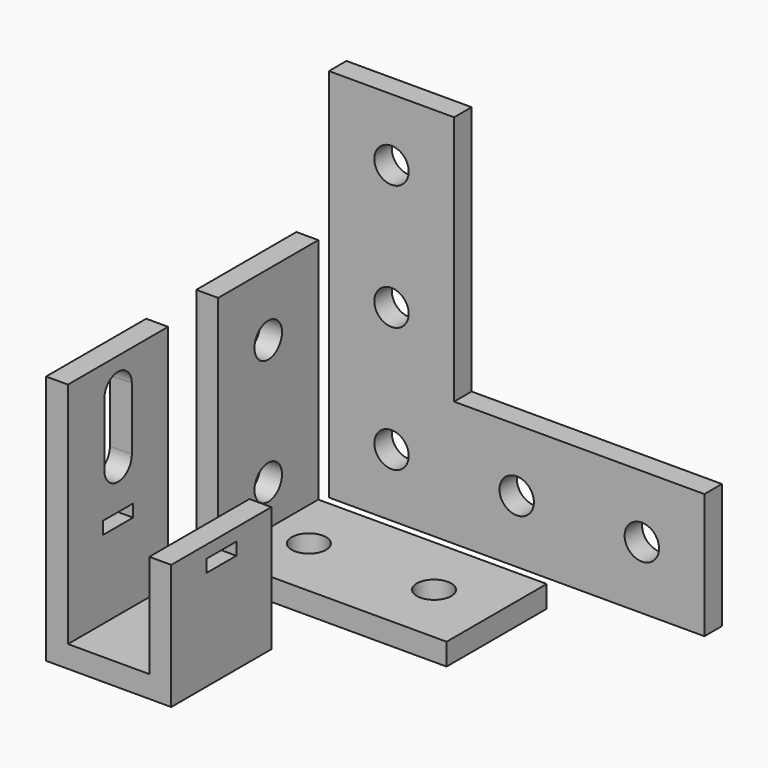
from build123d import *

# Parameters (mm, degrees)
F0_R      = 2.75
F1_DEPTH  = 3.5
F3_DEPTH  = 20
F4_R      = 2.75
F5_DEPTH  = 3.5
F6_R      = 2.75
F7_DEPTH  = 3.5
F9_DEPTH  = 20
F11_DEPTH = 3.5
F12_W     = 6
F12_H     = 2
F13_DEPTH = 20


with BuildPart() as f1:
    # F0 (on Front) → F1 (new body)
    with BuildSketch(Plane.XZ):
        Polygon((0, 20), (0, 0), (20, 0), (60, 0), (60, 20), (20, 20), (20, 60), (0, 60), align=None)
        with Locations((10, 10)):
            Circle(F0_R, mode=Mode.SUBTRACT)
        with Locations((30, 10)):
            Circle(F0_R, mode=Mode.SUBTRACT)
        with Locations((50, 10)):
            Circle(F0_R, mode=Mode.SUBTRACT)
        with Locations((10, 30)):
            Circle(F0_R, mode=Mode.SUBTRACT)
        with Locations((10, 50)):
            Circle(F0_R, mode=Mode.SUBTRACT)
    extrude(amount=F1_DEPTH)


with BuildPart() as f3:
    # F2 (on Front) → F3 (new body)
    with BuildSketch(Plane.XZ):
        Polygon((0, 3.5), (0, 0), (3.5, 0), (40, 0), (40, 3.5), (3.5, 3.5), (3.5, 40), (0, 40), align=None)
    extrude(amount=F3_DEPTH)

    # F4 (on face) → F5 (cut, through all)
    with BuildSketch(Plane(origin=(0, 0, 0), x_dir=(0, -1, 0), z_dir=(-1, 0, 0))):
        with Locations((10, 30)):
            Circle(F4_R)
        with Locations((10, 10)):
            Circle(F4_R)
    extrude(amount=-F5_DEPTH, mode=Mode.SUBTRACT)

    # F6 (on face) → F7 (cut, through all)
    with BuildSketch(Plane(origin=(0, 0, 0), x_dir=(1, 0, 0), z_dir=(0, 0, -1))):
        with Locations((10, 10)):
            Circle(F6_R)
        with Locations((30, 10)):
            Circle(F6_R)
    extrude(amount=-F7_DEPTH, mode=Mode.SUBTRACT)


with BuildPart() as f9:
    # F8 (on Front) → F9 (new body)
    with BuildSketch(Plane.XZ):
        Polygon((0, 40), (0, 0), (3.5, 0), (20, 0), (20, 3.5), (20, 20), (16.5, 20), (16.5, 3.5), (3.5, 3.5), (3.5, 40), align=None)
    extrude(amount=F9_DEPTH)

    # F10 (on face) → F11 (cut, through all)
    with BuildSketch(Plane(origin=(0, 0, 0), x_dir=(0, -1, 0), z_dir=(-1, 0, 0))):
        with BuildLine():
            Line((12.75, 30), (12.75, 35))
            ThreePointArc((12.75, 35), (10, 37.75), (7.25, 35))
            Line((7.25, 35), (7.25, 30))
            Line((7.25, 30), (7.25, 25))
            ThreePointArc((7.25, 25), (10, 22.25), (12.75, 25))
            Line((12.75, 25), (12.75, 30))
        make_face()
    extrude(amount=-F11_DEPTH, mode=Mode.SUBTRACT)

    # F12 (on face) → F13 (cut, through all)
    with BuildSketch(Plane.YZ.offset(20)):
        with Locations((-10, 17)):
            Rectangle(F12_W, F12_H)
    extrude(amount=-F13_DEPTH, mode=Mode.SUBTRACT)


with BuildPart() as f1_1:
    # F14: moved
    add(f1.part.moved(Location((0, 10, 0))))


with BuildPart() as f9_1:
    # F15: moved
    add(f9.part.moved(Location((0, -30, 0))))


solid = Compound([f3.part, f1_1.part, f9_1.part])
